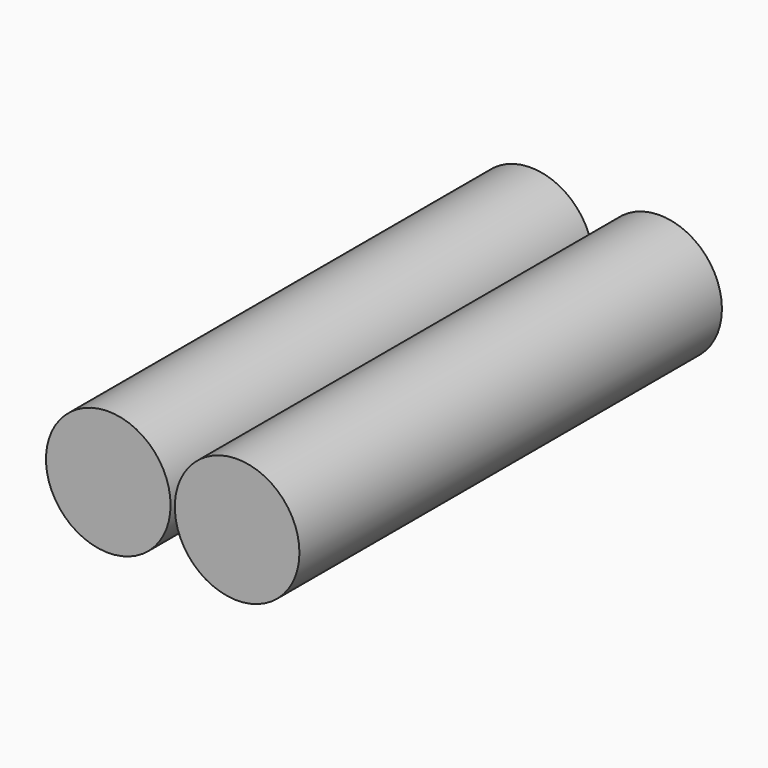
from build123d import *

# Parameters (mm, degrees)
F0_R          = 5.25
F1_DEPTH      = 22.25
F1_DEPTH_BACK = 22.25


with BuildPart() as f1:
    # F0 (on Front) → F1 (new body, two sides)
    with BuildSketch(Plane.XZ) as f1_sk:
        Circle(F0_R)
        with Locations((-10.857025, 0)):
            Circle(F0_R)
    extrude(amount=F1_DEPTH)
    extrude(f1_sk.sketch, amount=-F1_DEPTH_BACK)


solid = f1.part
